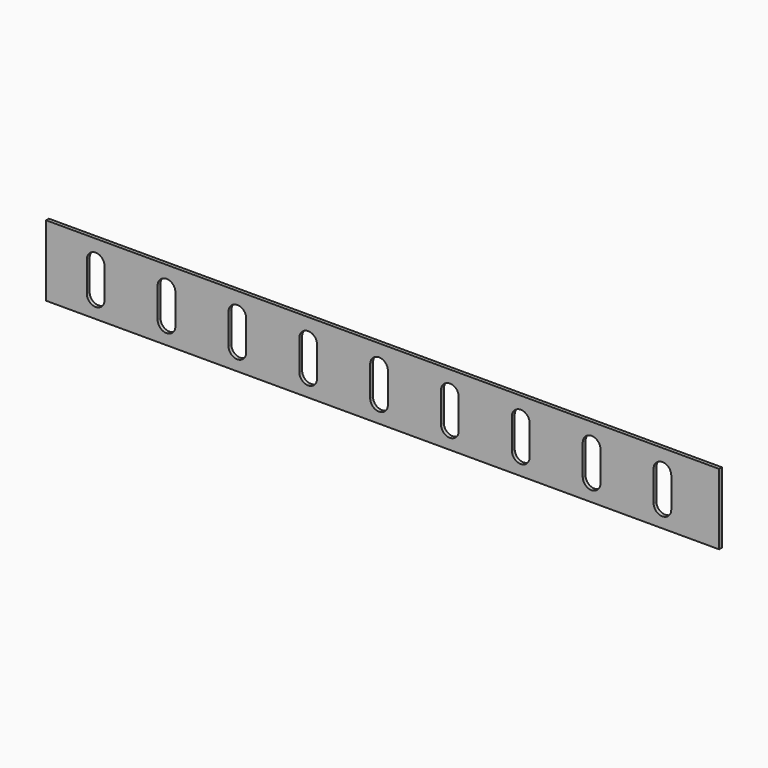
from build123d import *

# Parameters (mm, degrees)
F0_W     = 380
F0_H     = 40
F1_DEPTH = 2


with BuildPart() as f1:
    # F0 (on Front) → F1 (new body)
    with BuildSketch(Plane.XZ):
        with Locations((-18.354554, 10.730172)):
            Rectangle(F0_W, F0_H)
        with BuildLine():
            ThreePointArc((-180.354554, 23.765164), (-176.81902, 22.300698), (-175.354554, 18.765164))
            Line((-175.354554, 18.765164), (-175.354554, 1.730172))
            ThreePointArc((-175.354554, 1.730172), (-176.81902, -1.805362), (-180.354554, -3.269828))
            ThreePointArc((-180.354554, -3.269828), (-183.890088, -1.805362), (-185.354554, 1.730172))
            Line((-185.354554, 1.730172), (-185.354554, 18.765164))
            ThreePointArc((-185.354554, 18.765164), (-183.890088, 22.300698), (-180.354554, 23.765164))
        make_face(mode=Mode.SUBTRACT)
        with BuildLine():
            ThreePointArc((-140.354554, 23.765164), (-136.81902, 22.300698), (-135.354554, 18.765164))
            Line((-135.354554, 18.765164), (-135.354554, 1.730172))
            ThreePointArc((-135.354554, 1.730172), (-136.81902, -1.805362), (-140.354554, -3.269828))
            ThreePointArc((-140.354554, -3.269828), (-143.890088, -1.805362), (-145.354554, 1.730172))
            Line((-145.354554, 1.730172), (-145.354554, 18.765164))
            ThreePointArc((-145.354554, 18.765164), (-143.890088, 22.300698), (-140.354554, 23.765164))
        make_face(mode=Mode.SUBTRACT)
        with BuildLine():
            ThreePointArc((-100.354554, 23.765164), (-96.81902, 22.300698), (-95.354554, 18.765164))
            Line((-95.354554, 18.765164), (-95.354554, 1.730172))
            ThreePointArc((-95.354554, 1.730172), (-96.81902, -1.805362), (-100.354554, -3.269828))
            ThreePointArc((-100.354554, -3.269828), (-103.890088, -1.805362), (-105.354554, 1.730172))
            Line((-105.354554, 1.730172), (-105.354554, 18.765164))
            ThreePointArc((-105.354554, 18.765164), (-103.890088, 22.300698), (-100.354554, 23.765164))
        make_face(mode=Mode.SUBTRACT)
        with BuildLine():
            ThreePointArc((-60.354554, 23.765164), (-56.81902, 22.300698), (-55.354554, 18.765164))
            Line((-55.354554, 18.765164), (-55.354554, 1.730172))
            ThreePointArc((-55.354554, 1.730172), (-56.81902, -1.805362), (-60.354554, -3.269828))
            ThreePointArc((-60.354554, -3.269828), (-63.890088, -1.805362), (-65.354554, 1.730172))
            Line((-65.354554, 1.730172), (-65.354554, 18.765164))
            ThreePointArc((-65.354554, 18.765164), (-63.890088, 22.300698), (-60.354554, 23.765164))
        make_face(mode=Mode.SUBTRACT)
        with BuildLine():
            ThreePointArc((-20.354554, 23.765164), (-16.81902, 22.300698), (-15.354554, 18.765164))
            Line((-15.354554, 18.765164), (-15.354554, 1.730172))
            ThreePointArc((-15.354554, 1.730172), (-16.81902, -1.805362), (-20.354554, -3.269828))
            ThreePointArc((-20.354554, -3.269828), (-23.890088, -1.805362), (-25.354554, 1.730172))
            Line((-25.354554, 1.730172), (-25.354554, 18.765164))
            ThreePointArc((-25.354554, 18.765164), (-23.890088, 22.300698), (-20.354554, 23.765164))
        make_face(mode=Mode.SUBTRACT)
        with BuildLine():
            ThreePointArc((19.645446, 23.765164), (23.18098, 22.300698), (24.645446, 18.765164))
            Line((24.645446, 18.765164), (24.645446, 1.730172))
            ThreePointArc((24.645446, 1.730172), (23.18098, -1.805362), (19.645446, -3.269828))
            ThreePointArc((19.645446, -3.269828), (16.109912, -1.805362), (14.645446, 1.730172))
            Line((14.645446, 1.730172), (14.645446, 18.765164))
            ThreePointArc((14.645446, 18.765164), (16.109912, 22.300698), (19.645446, 23.765164))
        make_face(mode=Mode.SUBTRACT)
        with BuildLine():
            ThreePointArc((54.771692, 19.865221), (60.207243, 23.717081), (64.645446, 18.748743))
            Line((64.645446, 18.748743), (64.645446, 1.713751))
            ThreePointArc((64.645446, 1.713751), (59.8231, -3.283092), (54.65807, 1.358668))
            ThreePointArc((54.65807, 1.358668), (54.648603, 1.536097), (54.645446, 1.713751))
            Line((54.645446, 1.713751), (54.645446, 18.748743))
            ThreePointArc((54.645446, 18.748743), (54.677108, 19.31054), (54.771692, 19.865221))
        make_face(mode=Mode.SUBTRACT)
        with BuildLine():
            ThreePointArc((94.771692, 19.865221), (100.207243, 23.717081), (104.645446, 18.748743))
            Line((104.645446, 18.748743), (104.645446, 1.713751))
            ThreePointArc((104.645446, 1.713751), (99.8231, -3.283092), (94.65807, 1.358668))
            ThreePointArc((94.65807, 1.358668), (94.648603, 1.536097), (94.645446, 1.713751))
            Line((94.645446, 1.713751), (94.645446, 18.748743))
            ThreePointArc((94.645446, 18.748743), (94.677108, 19.31054), (94.771692, 19.865221))
        make_face(mode=Mode.SUBTRACT)
        with BuildLine():
            ThreePointArc((134.771692, 19.865221), (140.207243, 23.717081), (144.645446, 18.748743))
            Line((144.645446, 18.748743), (144.645446, 1.713751))
            ThreePointArc((144.645446, 1.713751), (139.8231, -3.283092), (134.65807, 1.358668))
            ThreePointArc((134.65807, 1.358668), (134.648603, 1.536097), (134.645446, 1.713751))
            Line((134.645446, 1.713751), (134.645446, 18.748743))
            ThreePointArc((134.645446, 18.748743), (134.677108, 19.31054), (134.771692, 19.865221))
        make_face(mode=Mode.SUBTRACT)
    extrude(amount=F1_DEPTH)


solid = f1.part
